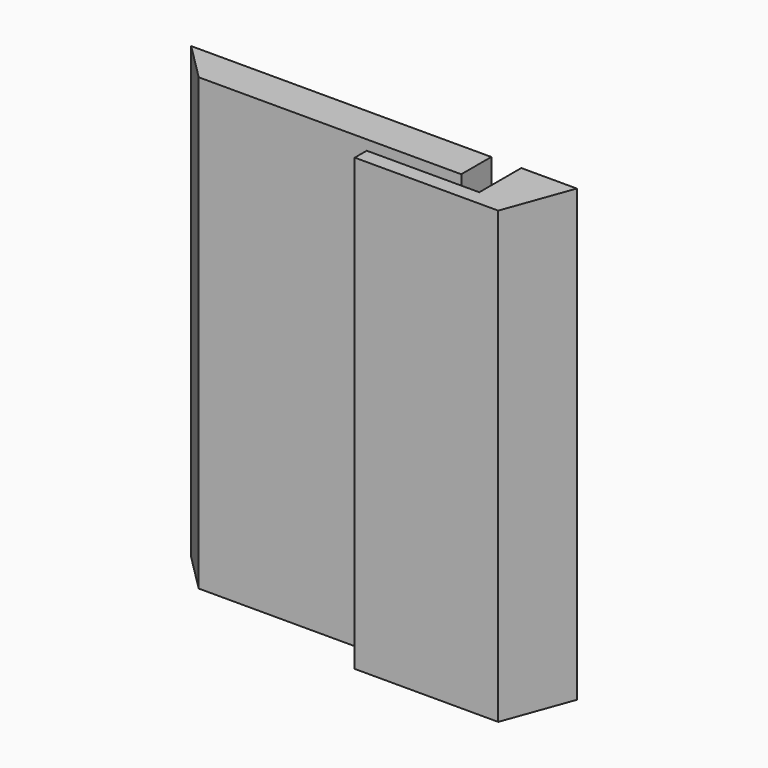
from build123d import *

# Parameters (mm, degrees)
F1_DEPTH = 300
F3_DEPTH = 300


with BuildPart() as f1:
    # F0 (on Top) → F1 (new body)
    with BuildSketch(Plane.XY):
        Polygon((0, 0), (-200, 0), (-175, -25), (0, -25), align=None)
    extrude(amount=F1_DEPTH)


with BuildPart() as f3:
    # F2 (on Top) → F3 (new body)
    with BuildSketch(Plane.XY):
        Polygon((57, 0), (20, 0), (20, -35), (-55, -35), (-55, -45), (40.621339, -45), align=None)
    extrude(amount=F3_DEPTH)


solid = Compound([f1.part, f3.part])
